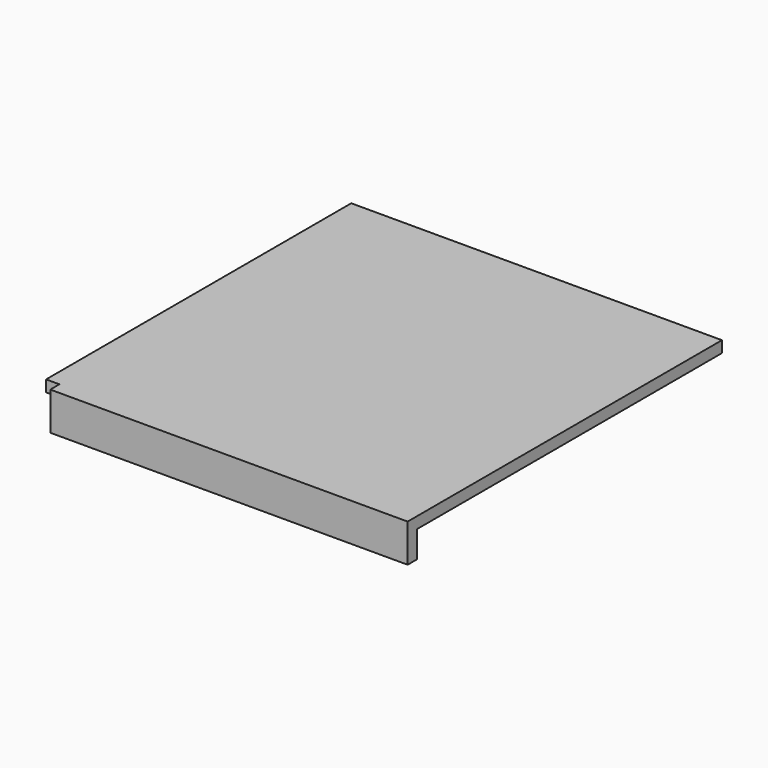
from build123d import *

# Parameters (mm, degrees)
F0_W     = 585
F0_H     = 620
F1_DEPTH = 18
F2_W     = 585
F2_H     = 18
F3_DEPTH = 42
F4_W     = 21
F4_H     = 18
F5_DEPTH = 60


with BuildPart() as f1:
    # F0 (on Top) → F1 (new body)
    with BuildSketch(Plane.XY):
        Rectangle(F0_W, F0_H)
    extrude(amount=F1_DEPTH)

    # F2 (on face) → F3 (join)
    with BuildSketch(Plane(origin=(0, 0, 0), x_dir=(1, 0, 0), z_dir=(0, 0, -1))):
        with Locations((0, 301)):
            Rectangle(F2_W, F2_H)
    extrude(amount=F3_DEPTH)

    # F4 (on face) → F5 (cut)
    with BuildSketch(Plane.XY.offset(18)):
        with Locations((-282, -301)):
            Rectangle(F4_W, F4_H)
    extrude(amount=-F5_DEPTH, mode=Mode.SUBTRACT)


solid = f1.part
